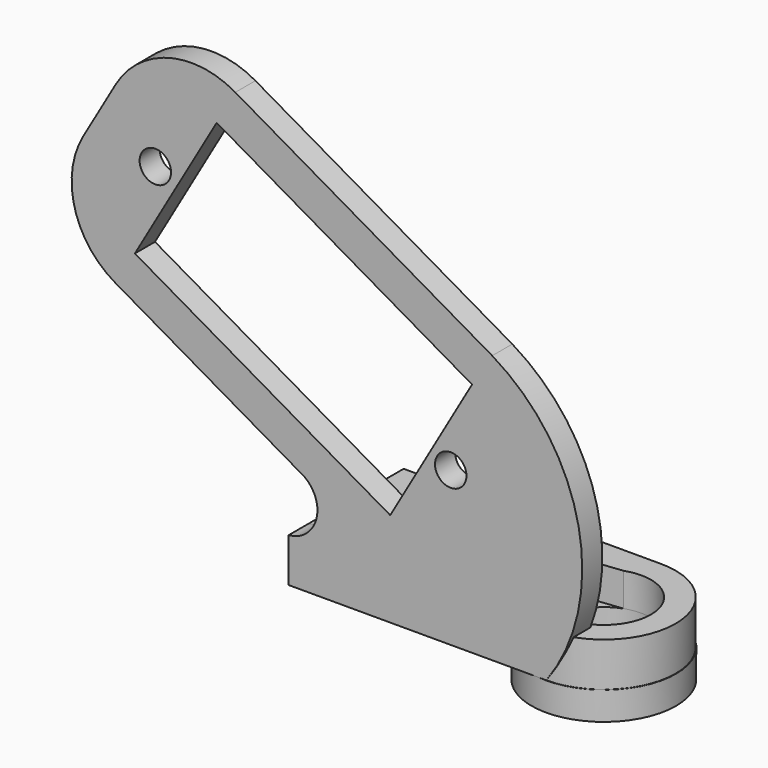
from build123d import *

# Parameters (mm, degrees)
SKETCH051_R        = 5.75
SKETCH051_R_2      = 3.75
PAD012002_DEPTH    = 2.25
PAD012003_DEPTH    = 3.5
POCKET003052_DEPTH = 2.65
SKETCH054_R        = 3.75
SKETCH054_R_2      = 0.75
POCKET003053_DEPTH = 5
SKETCH055_R        = 1.25
PAD012004_DEPTH    = 2


with BuildPart() as part:
    # Sketch051 → Pad012002 (new body)
    with BuildSketch(Plane.XY):
        Circle(SKETCH051_R)
        Circle(SKETCH051_R_2, mode=Mode.SUBTRACT)
    extrude(amount=PAD012002_DEPTH)

    # Sketch053 (on Face4 of Pad012002) → Pad012003 (join)
    with BuildSketch(Plane.XY.offset(2.25)):
        with BuildLine():
            Line((0, 5.714965), (-20.5, 5.714965))
            Line((-20.5, 5.714965), (-20.5, -5.714965))
            Line((0, -5.714965), (-20.5, -5.714965))
            ThreePointArc((0, -5.714965), (5.714965, 0), (0, 5.714965))
        make_face()
    extrude(amount=PAD012003_DEPTH)

    # Sketch052 (on Face11 of Pad012003) → Pocket003052 (cut)
    with BuildSketch(Plane.XY.offset(5.75)):
        with BuildLine():
            Line((-1.25, 3.535534), (-16.999999, 1.742953))
            ThreePointArc((-16.999999, 1.742953), (-18.232454, 1.232454), (-18.742953, 0))
            ThreePointArc((-18.742953, 0), (-18.232454, -1.232454), (-16.999999, -1.742953))
            Line((-1.25, -3.535534), (-16.999999, -1.742953))
            ThreePointArc((-1.25, -3.535534), (2.165064, -3.061862), (3.75, 0))
            ThreePointArc((3.75, 0), (2.165064, 3.061862), (-1.25, 3.535534))
        make_face()
    extrude(amount=-POCKET003052_DEPTH, mode=Mode.SUBTRACT)

    # Sketch054 (on Face16 of Pocket003052) → Pocket003053 (cut)
    with BuildSketch(Plane.XY.offset(3.1)):
        Circle(SKETCH054_R)
        with Locations((-14.5, 0)):
            Circle(SKETCH054_R_2)
        with Locations((-12.5, 0)):
            Circle(SKETCH054_R_2)
        with Locations((-10.5, 0)):
            Circle(SKETCH054_R_2)
        with Locations((-8.5, 0)):
            Circle(SKETCH054_R_2)
        with Locations((-6.5, 0)):
            Circle(SKETCH054_R_2)
    extrude(amount=-POCKET003053_DEPTH, mode=Mode.SUBTRACT)

    # Sketch055 (on Face2 of Pocket003053) → Pad012004 (join)
    with BuildSketch(Plane.XZ.offset(5.714965)):
        with BuildLine():
            Line((-20.5, 2.25), (0, 2.25))
            ThreePointArc((0, 2.25), (2.563672, 13.869245), (-4.309476, 23.582077))
            Line((-24.748606, 35.382614), (-4.309476, 23.582077))
            ThreePointArc((-24.748606, 35.382614), (-30.040757, 36.079339), (-34.275532, 32.829882))
            Line((-36.844536, 28.380237), (-34.275532, 32.829882))
            ThreePointArc((-36.844536, 28.380237), (-37.534628, 23.138468), (-34.316106, 18.944009))
            Line((-34.316106, 18.944009), (-19.282618, 10.264421))
            ThreePointArc((-20.5, 5.75), (-18.301189, 7.578411), (-19.282618, 10.264421))
            Line((-20.5, 5.75), (-20.5, 2.25))
        make_face()
        with Locations((-31.113487, 28.115616)):
            Circle(SKETCH055_R, mode=Mode.SUBTRACT)
        with Locations((-7.608902, 14.5)):
            Circle(SKETCH055_R, mode=Mode.SUBTRACT)
        Polygon((-32.740181, 21.49825), (-26.230181, 32.773901), (-5.913225, 21.043901), (-12.423225, 9.76825), align=None, mode=Mode.SUBTRACT)
    extrude(amount=-PAD012004_DEPTH)


with BuildPart() as part_1:
    # Body010 placement: moved
    add(part.part.moved(Location((0, 0, 44))))


solid = part_1.part
